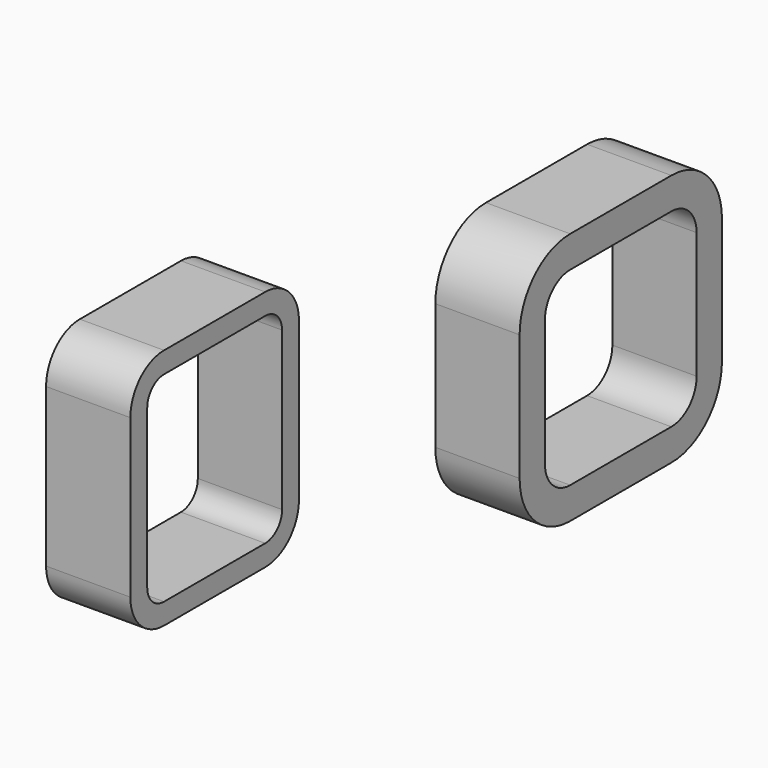
from build123d import *

# Parameters (mm, degrees)
F1_DEPTH = 25.4
F3_DEPTH = 25.4


with BuildPart() as f1:
    # F0 (on Right) → F1 (new body)
    with BuildSketch(Plane.YZ):
        with BuildLine():
            Line((19.05, 38.1), (-19.05, 38.1))
            ThreePointArc((-19.05, 38.1), (-32.520384, 32.520384), (-38.1, 19.05))
            Line((-38.1, 19.05), (-38.1, -19.05))
            ThreePointArc((-38.1, -19.05), (-32.520384, -32.520384), (-19.05, -38.1))
            Line((-19.05, -38.1), (19.05, -38.1))
            ThreePointArc((19.05, -38.1), (32.520384, -32.520384), (38.1, -19.05))
            Line((38.1, -19.05), (38.1, 19.05))
            ThreePointArc((38.1, 19.05), (32.520384, 32.520384), (19.05, 38.1))
        make_face()
        with BuildLine():
            ThreePointArc((-28.575, 19.05), (-25.785192, 25.785192), (-19.05, 28.575))
            Line((-19.05, 28.575), (19.05, 28.575))
            ThreePointArc((19.05, 28.575), (25.785192, 25.785192), (28.575, 19.05))
            Line((28.575, 19.05), (28.575, -19.05))
            ThreePointArc((28.575, -19.05), (25.785192, -25.785192), (19.05, -28.575))
            Line((19.05, -28.575), (-19.05, -28.575))
            ThreePointArc((-19.05, -28.575), (-25.785192, -25.785192), (-28.575, -19.05))
            Line((-28.575, -19.05), (-28.575, 19.05))
        make_face(mode=Mode.SUBTRACT)
    extrude(amount=F1_DEPTH)


with BuildPart() as f3:
    # F2 (on Right) → F3 (new body)
    with BuildSketch(Plane.YZ):
        with BuildLine():
            Line((-133.936104, 69.380991), (-172.036104, 69.380991))
            ThreePointArc((-172.036104, 69.380991), (-181.01636, 65.661247), (-184.736104, 56.680991))
            Line((-184.736104, 56.680991), (-184.736104, 9.055991))
            ThreePointArc((-184.736104, 9.055991), (-181.01636, 0.075735), (-172.036104, -3.644009))
            Line((-172.036104, -3.644009), (-133.936104, -3.644009))
            ThreePointArc((-133.936104, -3.644009), (-124.955848, 0.075735), (-121.236104, 9.055991))
            Line((-121.236104, 9.055991), (-121.236104, 56.680991))
            ThreePointArc((-121.236104, 56.680991), (-124.955848, 65.661247), (-133.936104, 69.380991))
        make_face()
        with BuildLine():
            ThreePointArc((-178.386104, 56.680991), (-176.526232, 61.171119), (-172.036104, 63.030991))
            Line((-172.036104, 63.030991), (-133.936104, 63.030991))
            ThreePointArc((-133.936104, 63.030991), (-129.445976, 61.171119), (-127.586104, 56.680991))
            Line((-127.586104, 56.680991), (-127.586104, 9.055991))
            ThreePointArc((-127.586104, 9.055991), (-129.445976, 4.565863), (-133.936104, 2.705991))
            Line((-133.936104, 2.705991), (-172.036104, 2.705991))
            ThreePointArc((-172.036104, 2.705991), (-176.526232, 4.565863), (-178.386104, 9.055991))
            Line((-178.386104, 9.055991), (-178.386104, 56.680991))
        make_face(mode=Mode.SUBTRACT)
    extrude(amount=F3_DEPTH)


solid = Compound([f1.part, f3.part])
